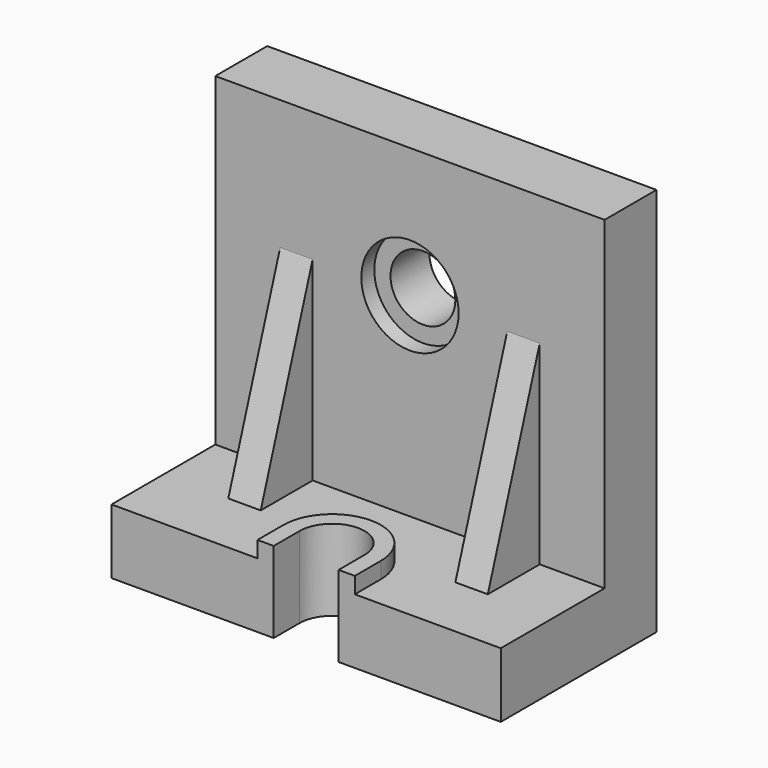
from build123d import *

# Parameters (mm, degrees)
F1_DEPTH = 76.2
F3_DEPTH = 25.401
F4_R     = 12.7
F5_DEPTH = 25.401
F4_R_2   = 19.05
F6_DEPTH = 6.35
F9_DEPTH = 6.35
F11_W    = 6.35
F11_H    = 6.35


with BuildPart() as f1:
    # F0 (on Right) → F1 (new body, symmetric)
    with BuildSketch(Plane.YZ):
        Polygon((-76.2, 0), (0, 0), (0, 152.4), (-25.4, 152.4), (-25.4, 25.4), (-76.2, 25.4), align=None)
    extrude(amount=F1_DEPTH, both=True)

    # F2 (on face) → F3 (cut, through all)
    with BuildSketch(Plane.XY.offset(25.4)):
        with BuildLine():
            Line((12.7, -76.2), (12.7, -63.5))
            ThreePointArc((12.7, -63.5), (0, -50.8), (-12.7, -63.5))
            Line((-12.7, -63.5), (-12.7, -76.2))
            Line((-12.7, -76.2), (12.7, -76.2))
        make_face()
    extrude(amount=-F3_DEPTH, mode=Mode.SUBTRACT)

    # F4 (on face) → F5 (cut, through all)
    with BuildSketch(Plane.XZ.offset(25.4)):
        with Locations((0, 101.6)):
            Circle(F4_R)
    extrude(amount=-F5_DEPTH, mode=Mode.SUBTRACT)

    # F4 (on face) → F6 (cut)
    with BuildSketch(Plane.XZ.offset(25.4)):
        with Locations((0, 101.6)):
            Circle(F4_R_2)
        with Locations((0, 101.6)):
            Circle(F4_R, mode=Mode.SUBTRACT)
    extrude(amount=-F6_DEPTH, mode=Mode.SUBTRACT)

    # F8 (on offset) → F9 (join, symmetric)
    with BuildSketch(Plane.YZ.offset(44.45)):
        Polygon((-50.8, 25.4), (-25.4, 25.4), (-25.4, 101.6), align=None)
    extrude(amount=F9_DEPTH, both=True)

    # F10: F1 across plane


with BuildPart() as f1_1:
    add(f1.part)
    add(f1.part.mirror(Plane.YZ))

    # F12: sweep along a path in F2
    with BuildLine(Plane.XY.offset(25.4)) as f12_path:
        Line((-12.7, -76.2), (-12.7, -63.5))
        ThreePointArc((-12.7, -63.5), (0, -50.8), (12.7, -63.5))
        Line((12.7, -63.5), (12.7, -76.2))
    # F11 (on face) → F12 (sweep)
    with BuildSketch(Plane.XZ.offset(76.2)):
        with Locations((-15.875, 28.575)):
            Rectangle(F11_W, F11_H)
    sweep(path=f12_path.line)


solid = f1_1.part
